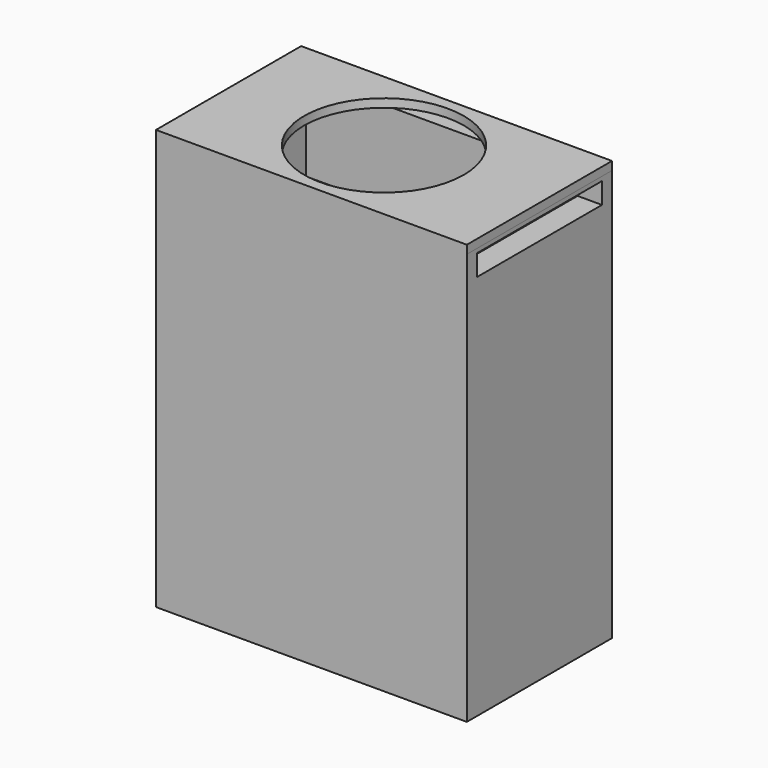
from build123d import *

# Parameters (mm, degrees)
F0_W            = 37
F0_H            = 21.6
F4_DEPTH        = 50
F5_T            = -2.9
F6_W            = 18.6
F6_H            = 2.5
F7_DEPTH        = 2.9
F8_W            = 36.999993
F8_H            = 21.599919
F9_DEPTH        = 1
F10_D           = 15.5
F10_CBORE_D     = 19
F10_CBORE_DEPTH = 1


with BuildPart() as f4:
    # F0 (on Top) → F4 (new body)
    with BuildSketch(Plane.XY):
        Rectangle(F0_W, F0_H)
    extrude(amount=F4_DEPTH)

    # F5
    f5_openings = [f4.faces().sort_by_distance(p)[0] for p in [
        (0, 0, 50),
        (0, 0, 0),
    ]]
    offset(amount=F5_T, openings=f5_openings)

    # F6 (on face) → F7 (cut)
    with BuildSketch(Plane.YZ.offset(18.5)):
        with Locations((0, 47.25)):
            Rectangle(F6_W, F6_H)
    extrude(amount=-F7_DEPTH, mode=Mode.SUBTRACT)

    # F8 (on offset) → F9 (join)
    with BuildSketch(Plane.XY.offset(50)):
        with Locations((1.5e-05, -3.1e-05)):
            Rectangle(F8_W, F8_H)
    extrude(amount=-F9_DEPTH)

    # F10 (through all)
    with Locations(Plane.XY.offset(50)):
        with Locations((0, 0)):
            CounterBoreHole(F10_D / 2, F10_CBORE_D / 2, F10_CBORE_DEPTH)


solid = f4.part
